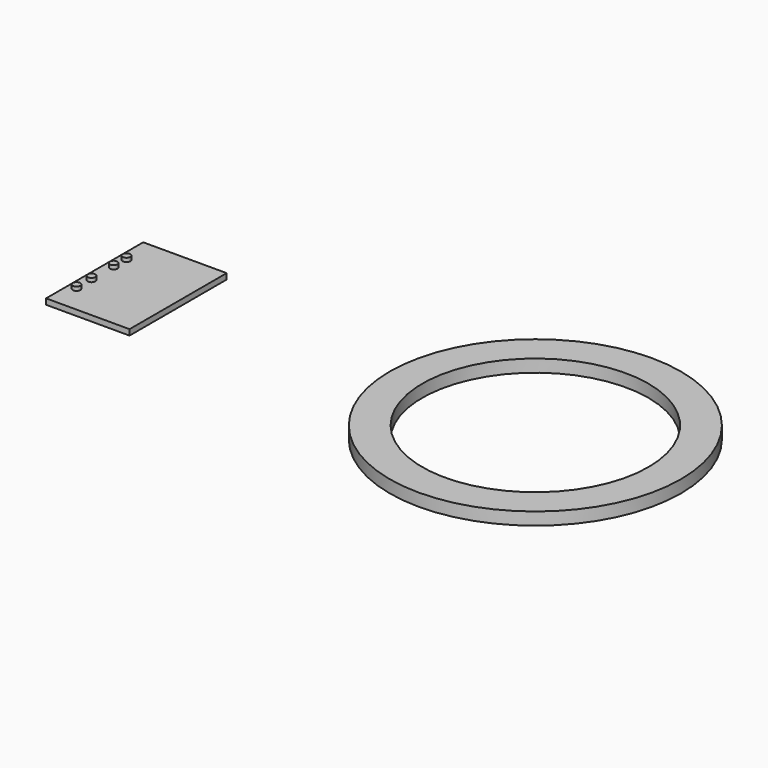
from build123d import *

# Parameters (mm, degrees)
F0_R     = 19.2
F0_R_2   = 14.9
F1_DEPTH = 1.65
F2_W     = 11
F2_H     = 16
F3_DEPTH = 0.75
F4_R     = 0.5
F5_DEPTH = 0.5


with BuildPart() as f1:
    # F0 (on Top) → F1 (new body)
    with BuildSketch(Plane.XY):
        Circle(F0_R)
        Circle(F0_R_2, mode=Mode.SUBTRACT)
    extrude(amount=F1_DEPTH)


with BuildPart() as f3:
    # F2 (on Top) → F3 (new body)
    with BuildSketch(Plane.XY):
        with Locations((-52.580937, 0)):
            Rectangle(F2_W, F2_H)
    extrude(amount=F3_DEPTH)

    # F4 (on face) → F5 (join)
    with BuildSketch(Plane.XY.offset(0.75)):
        with Locations((-56.977503, 3.865334)):
            Circle(F4_R)
        with Locations((-56.977503, 1.747658)):
            Circle(F4_R)
        with Locations((-56.977503, -1.887582)):
            Circle(F4_R)
        with Locations((-56.977503, -4.3605)):
            Circle(F4_R)
    extrude(amount=F5_DEPTH)


solid = Compound([f1.part, f3.part])
